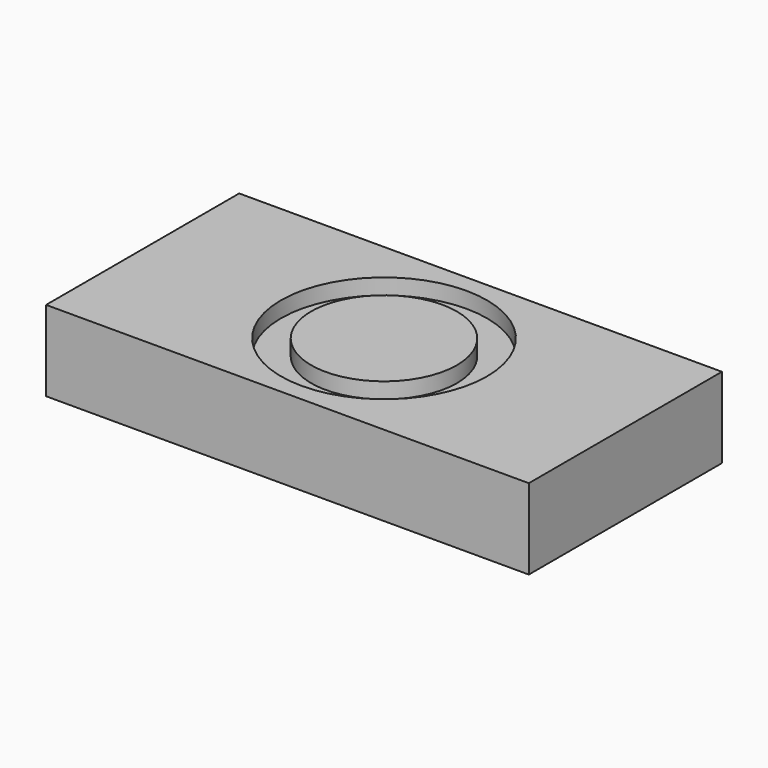
from build123d import *

# Parameters (mm, degrees)
F0_W     = 152.4
F0_H     = 76.2
F0_R     = 32.525
F0_R_2   = 23.5
F0_R_3   = 23
F1_DEPTH = 25.4
F2_DEPTH = 5
F3_R     = 25.527
F4_DEPTH = 6.604


with BuildPart() as f1:
    # F0 (on Top) → F1 (new body)
    with BuildSketch(Plane.XY):
        Rectangle(F0_W, F0_H)
        Circle(F0_R, mode=Mode.SUBTRACT)
        Circle(F0_R)
        Circle(F0_R_2, mode=Mode.SUBTRACT)
        Circle(F0_R_2)
        Circle(F0_R_3, mode=Mode.SUBTRACT)
        Circle(F0_R_3)
    extrude(amount=-F1_DEPTH)

    # F0 (on Top) → F2 (cut)
    with BuildSketch(Plane.XY):
        Circle(F0_R)
        Circle(F0_R_2, mode=Mode.SUBTRACT)
        Circle(F0_R_2)
        Circle(F0_R_3, mode=Mode.SUBTRACT)
    extrude(amount=-F2_DEPTH, mode=Mode.SUBTRACT)

    # F3 (on face) → F4 (cut)
    with BuildSketch(Plane(origin=(0, 0, -25.4), x_dir=(1, 0, 0), z_dir=(0, 0, -1))):
        Circle(F3_R)
    extrude(amount=-F4_DEPTH, mode=Mode.SUBTRACT)


solid = f1.part
